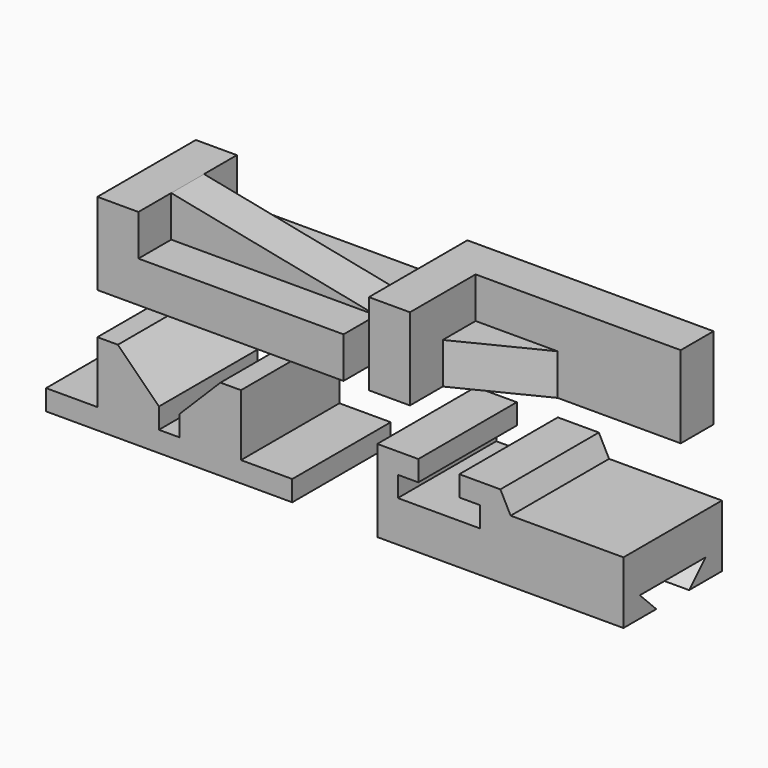
from build123d import *

# Parameters (mm, degrees)
F1_DEPTH  = 76.2
F2_DEPTH  = 76.2
F4_DEPTH  = 25.4
F5_DEPTH  = 25.4
F6_DEPTH  = 25.4
F8_DEPTH  = 50.8
F9_W      = 50.8
F9_H      = 25.4
F10_DEPTH = 25.4
F12_DEPTH = 25.4
F14_DEPTH = 76.2
F16_DEPTH = 76.2
F18_DEPTH = 152.4


with BuildPart() as f1:
    # F0 (on Front) → F1 (new body)
    with BuildSketch(Plane.XZ):
        Polygon((0, 50.8), (0, 0), (152.4, 0), (152.4, 25.4), (25.4, 25.4), (25.4, 50.8), align=None)
    extrude(amount=F1_DEPTH)

    # F0 (on Front) → F2 (join)
    with BuildSketch(Plane.XZ):
        Polygon((25.4, 25.4), (152.4, 25.4), (25.4, 50.8), align=None)
    extrude(amount=F2_DEPTH)

    # F3 (on face) → F4 (cut)
    with BuildSketch(Plane.XZ.offset(76.2)):
        Polygon((152.4, 25.4), (25.4, 50.8), (25.4, 25.4), align=None)
    extrude(amount=-F4_DEPTH, mode=Mode.SUBTRACT)

    # F0 (on Front) → F5 (join)
    with BuildSketch(Plane.XZ):
        Polygon((25.4, 25.4), (152.4, 25.4), (25.4, 50.8), align=None)
    extrude(amount=F5_DEPTH)

    # F0 (on Front) → F6 (cut)
    with BuildSketch(Plane.XZ):
        Polygon((25.4, 25.4), (152.4, 25.4), (25.4, 50.8), align=None)
    extrude(amount=F6_DEPTH, mode=Mode.SUBTRACT)


with BuildPart() as f8:
    # F7 (on Top) → F8 (new body)
    with BuildSketch(Plane.XY):
        Polygon((320.513911, 0), (168.113911, 0), (168.113911, -76.2), (193.513911, -76.2), (193.513911, -25.4), (320.513911, -25.4), align=None)
    extrude(amount=F8_DEPTH)

    # F9 (on face) → F10 (join)
    with BuildSketch(Plane.XZ.offset(25.4)):
        with Locations((218.913911, 12.7)):
            Rectangle(F9_W, F9_H)
    extrude(amount=F10_DEPTH)

    # F11 (on face) → F12 (cut)
    with BuildSketch(Plane.XY.offset(25.4)):
        Polygon((244.313911, -25.4), (193.513911, -50.8), (244.313911, -50.8), align=None)
    extrude(amount=-F12_DEPTH, mode=Mode.SUBTRACT)


with BuildPart() as f14:
    # F13 (on Front) → F14 (new body)
    with BuildSketch(Plane.XZ):
        Polygon((-31.75, -76.483553), (120.65, -76.483553), (120.65, -63.783553), (88.9, -63.783553), (88.9, -25.683553), (76.2, -25.683553), (50.8, -51.083554), (50.8, -63.783554), (38.1, -63.783554), (38.1, -51.083554), (12.7, -25.683553), (0, -25.683553), (0, -63.783553), (-31.75, -63.783553), align=None)
    extrude(amount=F14_DEPTH)


with BuildPart() as f16:
    # F15 (on Front) → F16 (new body)
    with BuildSketch(Plane.XZ):
        Polygon((173.295313, -27.504317), (173.295313, -78.304317), (325.695313, -78.304317), (325.695313, -39.783328), (255.845313, -39.783328), (249.495313, -27.504317), (224.095313, -27.504317), (224.095313, -40.204317), (236.795313, -40.204317), (236.795313, -52.904317), (185.995313, -52.904317), (185.995313, -40.204317), (198.695313, -40.204317), (198.695313, -27.504317), align=None)
    extrude(amount=F16_DEPTH)

    # F17 (on face) → F18 (cut)
    with BuildSketch(Plane.YZ.offset(325.695313)):
        Polygon((-63.5, -65.604317), (-50.8, -78.304317), (-25.4, -78.304317), (-12.7, -65.604317), align=None)
    extrude(amount=-F18_DEPTH, mode=Mode.SUBTRACT)


solid = Compound([f1.part, f8.part, f14.part, f16.part])
